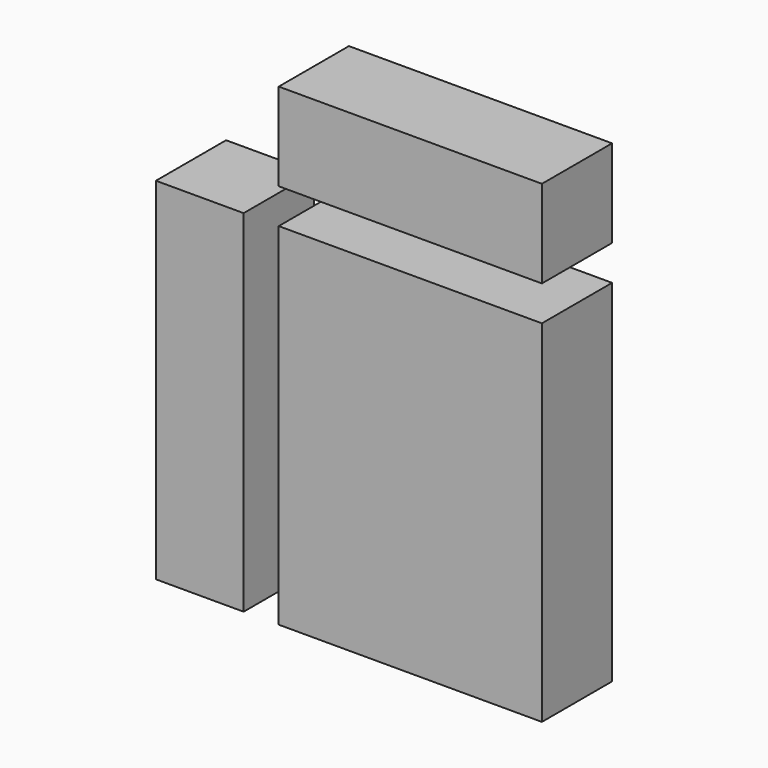
from build123d import *

# Parameters (mm, degrees)
BOX003_W              = 10
BOX003_H              = 10
BOX003_DEPTH          = 10
BOX001_W              = 10
BOX001_H              = 10
BOX001_DEPTH          = 10
BOX002_W              = 10
BOX002_H              = 10
BOX002_DEPTH          = 10
BOX_W                 = 10
BOX_H                 = 10
BOX_DEPTH             = 10
BOX006_W              = 10
BOX006_H              = 10
BOX006_DEPTH          = 10
BOX005_W              = 10
BOX005_H              = 10
BOX005_DEPTH          = 10
BOX004_W              = 10
BOX004_H              = 10
BOX004_DEPTH          = 10
FUSION001_PITCH_ANGLE = 90
BOX012_W              = 10
BOX012_H              = 10
BOX012_DEPTH          = 10
BOX011_W              = 10
BOX011_H              = 10
BOX011_DEPTH          = 10
BOX010_W              = 10
BOX010_H              = 10
BOX010_DEPTH          = 10
BOX018_W              = 10
BOX018_H              = 10
BOX018_DEPTH          = 10
BOX017_W              = 10
BOX017_H              = 10
BOX017_DEPTH          = 10
BOX016_W              = 10
BOX016_H              = 10
BOX016_DEPTH          = 10
BOX015_W              = 10
BOX015_H              = 10
BOX015_DEPTH          = 10
BOX014_W              = 10
BOX014_H              = 10
BOX014_DEPTH          = 10
BOX013_W              = 10
BOX013_H              = 10
BOX013_DEPTH          = 10
BOX008_W              = 10
BOX008_H              = 10
BOX008_DEPTH          = 10
BOX009_W              = 10
BOX009_H              = 10
BOX009_DEPTH          = 10
BOX007_W              = 10
BOX007_H              = 10
BOX007_DEPTH          = 10


with BuildPart() as cube003:
    # Box003 → Box003 (new body)
    with BuildSketch(Plane.XY.offset(30)):
        with Locations((5, 5)):
            Rectangle(BOX003_W, BOX003_H)
    extrude(amount=BOX003_DEPTH)


with BuildPart() as cube001:
    # Box001 → Box001 (new body)
    with BuildSketch(Plane.XY.offset(10)):
        with Locations((5, 5)):
            Rectangle(BOX001_W, BOX001_H)
    extrude(amount=BOX001_DEPTH)


with BuildPart() as cube002:
    # Box002 → Box002 (new body)
    with BuildSketch(Plane.XY.offset(20)):
        with Locations((5, 5)):
            Rectangle(BOX002_W, BOX002_H)
    extrude(amount=BOX002_DEPTH)


with BuildPart() as fusion:
    # Box → Box (new body)
    with BuildSketch(Plane.XY):
        with Locations((5, 5)):
            Rectangle(BOX_W, BOX_H)
    extrude(amount=BOX_DEPTH)

    # Fusion: union Cube003, Cube001, Cube002
    add(cube003.part)
    add(cube001.part)
    add(cube002.part)


with BuildPart() as cube006:
    # Box006 → Box006 (new body)
    with BuildSketch(Plane(origin=(14, 0, 20), x_dir=(1, 0, 0), z_dir=(0, 0, 1))):
        with Locations((5, 5)):
            Rectangle(BOX006_W, BOX006_H)
    extrude(amount=BOX006_DEPTH)


with BuildPart() as cube005:
    # Box005 → Box005 (new body)
    with BuildSketch(Plane(origin=(14, 0, 10), x_dir=(1, 0, 0), z_dir=(0, 0, 1))):
        with Locations((5, 5)):
            Rectangle(BOX005_W, BOX005_H)
    extrude(amount=BOX005_DEPTH)


with BuildPart() as fusion001:
    # Box004 → Box004 (new body)
    with BuildSketch(Plane(origin=(14, 0, 0), x_dir=(1, 0, 0), z_dir=(0, 0, 1))):
        with Locations((5, 5)):
            Rectangle(BOX004_W, BOX004_H)
    extrude(amount=BOX004_DEPTH)

    # Fusion001: union Cube006, Cube005
    add(cube006.part)
    add(cube005.part)


with BuildPart() as fusion001_1:
    # Fusion001 pitch: moved
    add(fusion001.part.rotate(Axis((0, 0, 0), (0, 1, 0)), FUSION001_PITCH_ANGLE))


with BuildPart() as fusion001_2:
    # Fusion001 placement: moved
    add(fusion001_1.part.moved(Location((14, 0, 68))))


with BuildPart() as cube012:
    # Box012 → Box012 (new body)
    with BuildSketch(Plane(origin=(24, 0, 30), x_dir=(1, 0, 0), z_dir=(0, 0, 1))):
        with Locations((5, 5)):
            Rectangle(BOX012_W, BOX012_H)
    extrude(amount=BOX012_DEPTH)


with BuildPart() as cube011:
    # Box011 → Box011 (new body)
    with BuildSketch(Plane(origin=(34, 0, 30), x_dir=(1, 0, 0), z_dir=(0, 0, 1))):
        with Locations((5, 5)):
            Rectangle(BOX011_W, BOX011_H)
    extrude(amount=BOX011_DEPTH)


with BuildPart() as fusion003:
    # Box010 → Box010 (new body)
    with BuildSketch(Plane(origin=(14, 0, 30), x_dir=(1, 0, 0), z_dir=(0, 0, 1))):
        with Locations((5, 5)):
            Rectangle(BOX010_W, BOX010_H)
    extrude(amount=BOX010_DEPTH)

    # Fusion003: union Cube012, Cube011
    add(cube012.part)
    add(cube011.part)


with BuildPart() as fusion003_1:
    # Fusion003 placement: moved
    add(fusion003.part.moved(Location((0, 0, -10))))


with BuildPart() as cube018:
    # Box018 → Box018 (new body)
    with BuildSketch(Plane(origin=(24, 0, 30), x_dir=(1, 0, 0), z_dir=(0, 0, 1))):
        with Locations((5, 5)):
            Rectangle(BOX018_W, BOX018_H)
    extrude(amount=BOX018_DEPTH)


with BuildPart() as cube017:
    # Box017 → Box017 (new body)
    with BuildSketch(Plane(origin=(34, 0, 30), x_dir=(1, 0, 0), z_dir=(0, 0, 1))):
        with Locations((5, 5)):
            Rectangle(BOX017_W, BOX017_H)
    extrude(amount=BOX017_DEPTH)


with BuildPart() as fusion005:
    # Box016 → Box016 (new body)
    with BuildSketch(Plane(origin=(14, 0, 30), x_dir=(1, 0, 0), z_dir=(0, 0, 1))):
        with Locations((5, 5)):
            Rectangle(BOX016_W, BOX016_H)
    extrude(amount=BOX016_DEPTH)

    # Fusion005: union Cube018, Cube017
    add(cube018.part)
    add(cube017.part)


with BuildPart() as fusion005_1:
    # Fusion005 placement: moved
    add(fusion005.part.moved(Location((0, 0, -30))))


with BuildPart() as cube015:
    # Box015 → Box015 (new body)
    with BuildSketch(Plane(origin=(24, 0, 30), x_dir=(1, 0, 0), z_dir=(0, 0, 1))):
        with Locations((5, 5)):
            Rectangle(BOX015_W, BOX015_H)
    extrude(amount=BOX015_DEPTH)


with BuildPart() as cube014:
    # Box014 → Box014 (new body)
    with BuildSketch(Plane(origin=(34, 0, 30), x_dir=(1, 0, 0), z_dir=(0, 0, 1))):
        with Locations((5, 5)):
            Rectangle(BOX014_W, BOX014_H)
    extrude(amount=BOX014_DEPTH)


with BuildPart() as fusion004:
    # Box013 → Box013 (new body)
    with BuildSketch(Plane(origin=(14, 0, 30), x_dir=(1, 0, 0), z_dir=(0, 0, 1))):
        with Locations((5, 5)):
            Rectangle(BOX013_W, BOX013_H)
    extrude(amount=BOX013_DEPTH)

    # Fusion004: union Cube015, Cube014
    add(cube015.part)
    add(cube014.part)


with BuildPart() as fusion004_1:
    # Fusion004 placement: moved
    add(fusion004.part.moved(Location((0, 0, -20))))


with BuildPart() as cube008:
    # Box008 → Box008 (new body)
    with BuildSketch(Plane(origin=(24, 0, 30), x_dir=(1, 0, 0), z_dir=(0, 0, 1))):
        with Locations((5, 5)):
            Rectangle(BOX008_W, BOX008_H)
    extrude(amount=BOX008_DEPTH)


with BuildPart() as cube009:
    # Box009 → Box009 (new body)
    with BuildSketch(Plane(origin=(34, 0, 30), x_dir=(1, 0, 0), z_dir=(0, 0, 1))):
        with Locations((5, 5)):
            Rectangle(BOX009_W, BOX009_H)
    extrude(amount=BOX009_DEPTH)


with BuildPart() as mode12:
    # Box007 → Box007 (new body)
    with BuildSketch(Plane(origin=(14, 0, 30), x_dir=(1, 0, 0), z_dir=(0, 0, 1))):
        with Locations((5, 5)):
            Rectangle(BOX007_W, BOX007_H)
    extrude(amount=BOX007_DEPTH)

    # Fusion002: union Cube008, Cube009
    add(cube008.part)
    add(cube009.part)

    # Fusion006: union Fusion003, Fusion005, Fusion004
    add(fusion003_1.part)
    add(fusion005_1.part)
    add(fusion004_1.part)


solid = Compound([fusion.part, fusion001_2.part, mode12.part])
